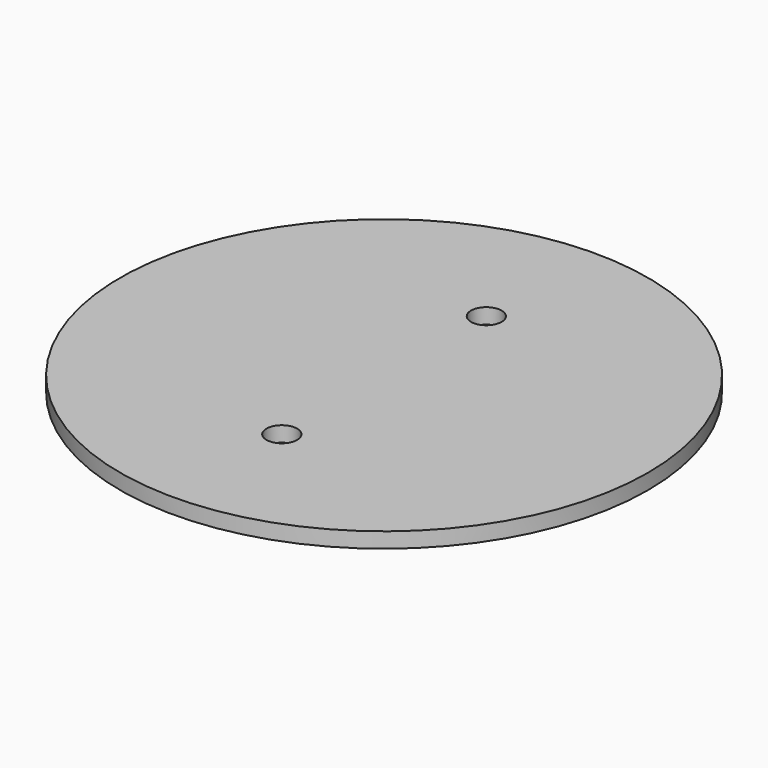
from build123d import *

# Parameters (mm, degrees)
SKETCH_R           = 103.248116
PAD_DEPTH          = 6
SKETCH001_R        = 6
POCKET_DEPTH       = 590.183803
POLARPATTERN_COUNT = 2


with BuildPart() as part:
    # Sketch → Pad (new body)
    with BuildSketch(Plane.XY):
        Circle(SKETCH_R)
    extrude(amount=PAD_DEPTH)

    # Sketch001 (on Face3 of Pad) → Pocket (cut, through all)
    with BuildSketch(Plane.XY.offset(6)):
        with Locations((0, 50)):
            Circle(SKETCH001_R)
    pocket = extrude(amount=-POCKET_DEPTH, mode=Mode.SUBTRACT)

    # PolarPattern: Pocket ×2 about axis
    polarpattern_axis = Axis((0, 0, 6), (0, 0, 1))
    for i in range(1, POLARPATTERN_COUNT):
        add(pocket.rotate(polarpattern_axis, i * 360 / POLARPATTERN_COUNT), mode=Mode.SUBTRACT)


solid = part.part
